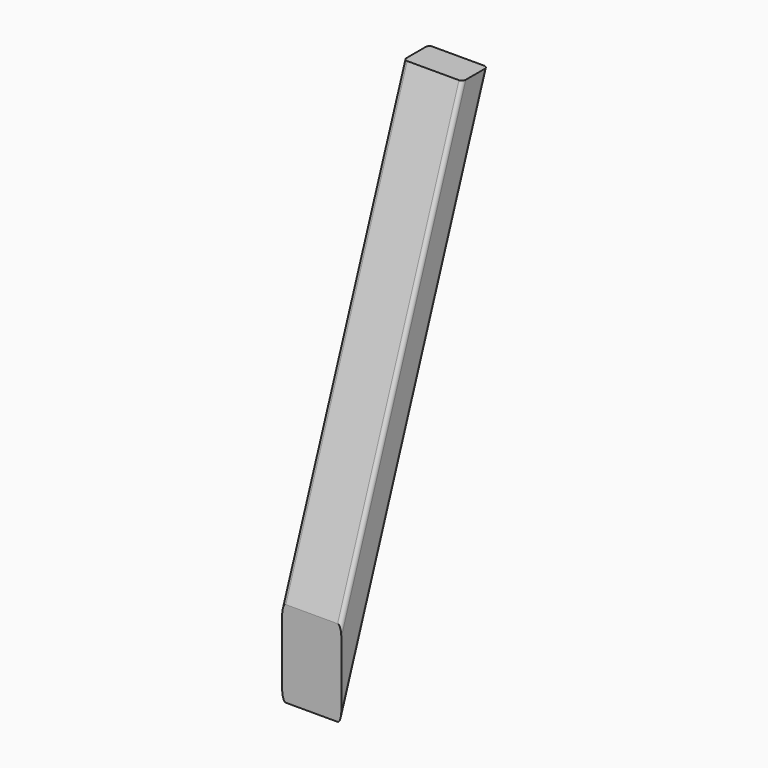
from build123d import *

# Parameters (mm, degrees)
F1_DEPTH = 80
F2_R     = 5


with BuildPart() as f1:
    # F0 (on Right) → F1 (new body)
    with BuildSketch(Plane.YZ):
        Polygon((0, 116.952176), (0, 0), (247.779197, 680.767748), (205.212086, 680.767748), align=None)
    extrude(amount=F1_DEPTH)

    # F2
    f2_edges = [f1.edges().sort_by_distance(p)[0] for p in [
        (80, 123.889598, 340.383874),
        (80, 102.606043, 398.859962),
        (0, 102.606043, 398.859962),
        (0, 123.889598, 340.383874),
    ]]
    fillet(f2_edges, radius=F2_R)


solid = f1.part
